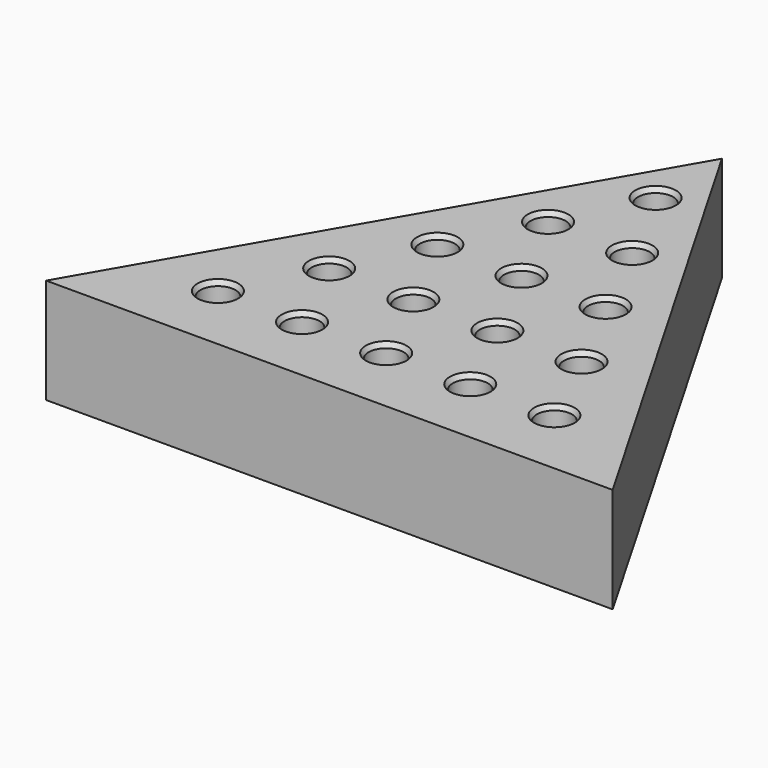
from build123d import *

# Parameters (mm, degrees)
F7_DEPTH = 19.05
F1_R     = 3.175
F2_R     = 3.175
F3_R     = 3.175
F4_R     = 3.175
F5_R     = 3.175
F8_DEPTH = 25.4
F9_SIZE2 = 0.879882
F9_SIZE  = 0.508


with BuildPart() as f7:
    # F6 (on face) → F7 (new body)
    with BuildSketch(Plane.XY):
        Polygon((-8.272192, 0), (94.380685, 0), (43.054246, 88.9), align=None)
    extrude(amount=F7_DEPTH)

    # F1 (on face) + F2 (on face) + F3 (on face) + F4 (on face) + F5 (on face) → F8 (cut)
    with BuildSketch(Plane.XY):
        with Locations((12.7, 12.7)):
            Circle(F1_R)
        with Locations((27.94, 12.7)):
            Circle(F1_R)
        with Locations((43.18, 12.7)):
            Circle(F1_R)
        with Locations((58.42, 12.7)):
            Circle(F1_R)
        with Locations((73.66, 12.7)):
            Circle(F1_R)
    with BuildSketch(Plane.XY):
        with Locations((20.669391, 27.935994)):
            Circle(F2_R)
        with Locations((35.909391, 27.935994)):
            Circle(F2_R)
        with Locations((51.149391, 27.935994)):
            Circle(F2_R)
        with Locations((66.389391, 27.935994)):
            Circle(F2_R)
    with BuildSketch(Plane.XY):
        with Locations((28.076159, 43.175994)):
            Circle(F3_R)
        with Locations((43.316159, 43.175994)):
            Circle(F3_R)
        with Locations((58.556159, 43.175994)):
            Circle(F3_R)
    with BuildSketch(Plane.XY):
        with Locations((35.941, 58.415994)):
            Circle(F4_R)
        with Locations((51.181, 58.415994)):
            Circle(F4_R)
    with BuildSketch(Plane.XY):
        with Locations((43.2308, 73.655994)):
            Circle(F5_R)
    extrude(amount=F8_DEPTH, mode=Mode.SUBTRACT)

    # F9
    f9_edges = [f7.edges().sort_by_distance(p)[0] for p in [
        (9.525, 12.7, 19.05),
        (24.765, 12.7, 19.05),
        (40.005, 12.7, 19.05),
        (55.245, 12.7, 19.05),
        (70.485, 12.7, 19.05),
        (63.214391, 27.935994, 19.05),
        (47.974391, 27.935994, 19.05),
        (32.734391, 27.935994, 19.05),
        (17.494391, 27.935994, 19.05),
        (24.901159, 43.175994, 19.05),
        (40.141159, 43.175994, 19.05),
        (55.381159, 43.175994, 19.05),
        (48.006, 58.415994, 19.05),
        (32.766, 58.415994, 19.05),
        (40.0558, 73.655994, 19.05),
    ]]
    chamfer(f9_edges, length=F9_SIZE, length2=F9_SIZE2)


solid = f7.part
